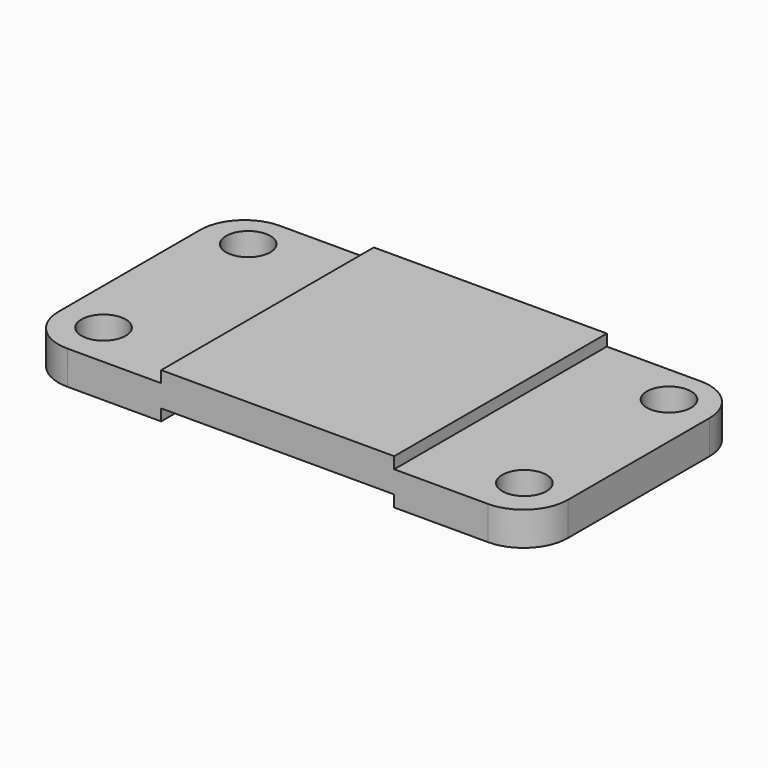
from build123d import *

# Parameters (mm, degrees)
F1_DEPTH = 76.2
F2_R     = 12.7
F3_R     = 6.35
F4_DEPTH = 48.811145


with BuildPart() as f1:
    # F0 (on Front) → F1 (new body)
    with BuildSketch(Plane.XZ):
        Polygon((-36.504163, 45.508145), (-76.128163, 45.508145), (-76.128163, 35.856145), (-36.504163, 35.856145), (-36.504163, 39.158145), (30.297837, 39.158145), (30.297837, 35.856145), (69.921837, 35.856145), (69.921837, 45.508145), (30.297837, 45.508145), (30.297837, 48.810145), (-36.504163, 48.810145), align=None)
    extrude(amount=F1_DEPTH)

    # F2
    f2_edges = [f1.edges().sort_by_distance(p)[0] for p in [
        (69.921837, 0, 40.682145),
        (69.921837, -76.2, 40.682145),
        (-76.128163, -76.2, 40.682145),
        (-76.128163, 0, 40.682145),
    ]]
    fillet(f2_edges, radius=F2_R)

    # F3 (on Top) → F4 (cut, through all)
    with BuildSketch(Plane.XY):
        with Locations((57.221837, -11.364109)):
            Circle(F3_R)
        with Locations((57.221837, -63.199298)):
            Circle(F3_R)
        with Locations((-63.428163, -63.199298)):
            Circle(F3_R)
        with Locations((-63.428163, -11.364109)):
            Circle(F3_R)
    extrude(amount=F4_DEPTH, mode=Mode.SUBTRACT)


solid = f1.part
